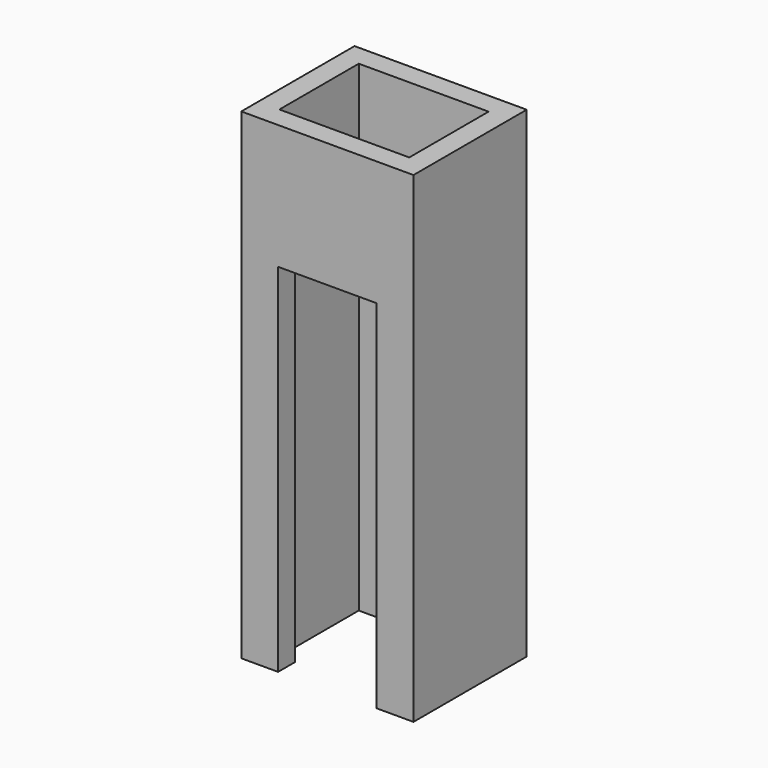
from build123d import *

# Parameters (mm, degrees)
F1_DEPTH = 2743.2
F2_W     = 561.975
F2_H     = 120.65
F3_DEPTH = 711.2


with BuildPart() as f1:
    # F0 (on Top) → F1 (new body)
    with BuildSketch(Plane.XY):
        Polygon((-280.9875, -403.225), (-280.9875, -282.575), (-369.8875, -282.575), (-369.8875, 282.575), (369.8875, 282.575), (369.8875, -282.575), (280.9875, -282.575), (280.9875, -403.225), (490.5375, -403.225), (490.5375, 403.225), (-490.5375, 403.225), (-490.5375, -403.225), align=None)
    extrude(amount=F1_DEPTH)

    # F2 (on face) → F3 (join)
    with BuildSketch(Plane.XY.offset(2743.2)):
        with Locations((0, -342.9)):
            Rectangle(F2_W, F2_H)
    extrude(amount=-F3_DEPTH)


solid = f1.part
